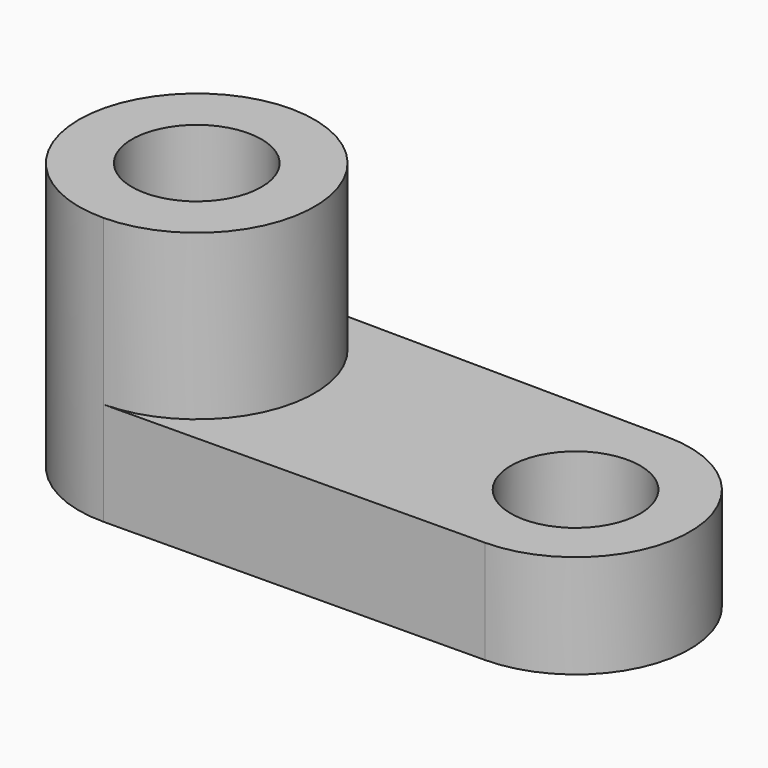
from build123d import *

# Parameters (mm, degrees)
F0_R     = 15.920661
F1_DEPTH = 25.4
F2_DEPTH = 65.786
F3_DEPTH = 76.2
F4_DEPTH = 61.214


with BuildPart() as f1:
    # F0 (on Top) → F1 (new body)
    with BuildSketch(Plane.XY):
        with Locations((46.579406, 0)):
            Circle(F0_R)
        with BuildLine():
            Line((46.842293, 28.102132), (-46.308367, 28.973528))
            ThreePointArc((-46.308367, 28.973528), (-17.604609, 0), (-46.308367, -28.973528))
            Line((-46.308367, -28.973528), (46.842293, -28.102132))
            ThreePointArc((46.842293, -28.102132), (74.682768, 0), (46.842293, 28.102132))
        make_face()
        with Locations((46.579406, 0)):
            Circle(F0_R, mode=Mode.SUBTRACT)
        with BuildLine():
            ThreePointArc((-46.308367, -28.973528), (-17.604609, 0), (-46.308367, 28.973528))
            ThreePointArc((-46.308367, 28.973528), (-75.554202, 0), (-46.308367, -28.973528))
        make_face()
        with Locations((-46.579406, 0)):
            Circle(F0_R, mode=Mode.SUBTRACT)
        with Locations((-46.579406, 0)):
            Circle(F0_R)
    extrude(amount=F1_DEPTH)

    # F0 (on Top) → F2 (join)
    with BuildSketch(Plane.XY):
        with BuildLine():
            ThreePointArc((-46.308367, -28.973528), (-17.604609, 0), (-46.308367, 28.973528))
            ThreePointArc((-46.308367, 28.973528), (-75.554202, 0), (-46.308367, -28.973528))
        make_face()
        with Locations((-46.579406, 0)):
            Circle(F0_R, mode=Mode.SUBTRACT)
        with Locations((-46.579406, 0)):
            Circle(F0_R)
    extrude(amount=F2_DEPTH)

    # F0 (on Top) → F3 (cut)
    with BuildSketch(Plane.XY):
        with Locations((-46.579406, 0)):
            Circle(F0_R)
    extrude(amount=F3_DEPTH, mode=Mode.SUBTRACT)

    # F0 (on Top) → F4 (cut)
    with BuildSketch(Plane.XY):
        with Locations((46.579406, 0)):
            Circle(F0_R)
    extrude(amount=F4_DEPTH, mode=Mode.SUBTRACT)


solid = f1.part
